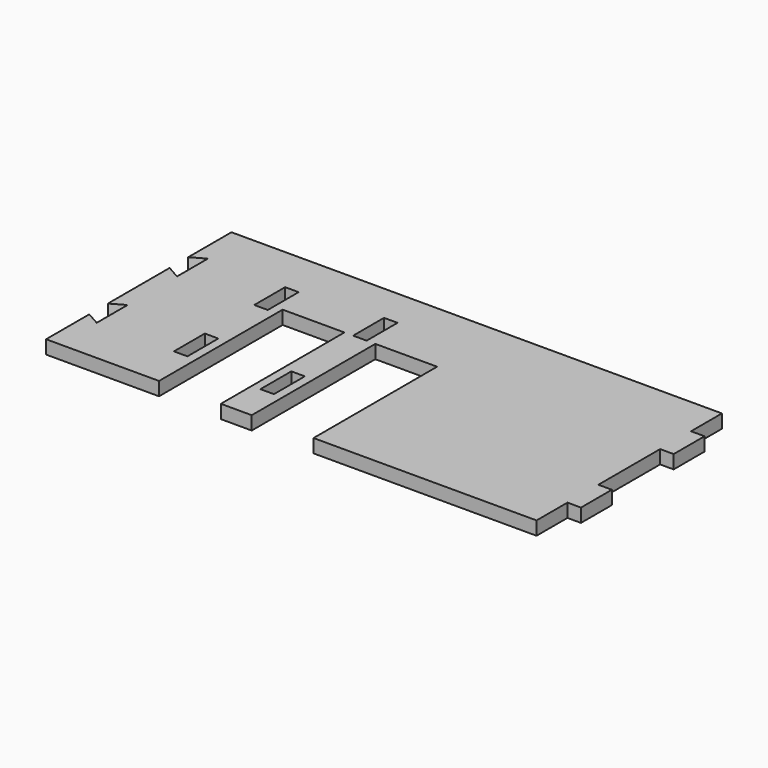
from build123d import *

# Parameters (mm, degrees)
F0_W      = 3.5
F0_H      = 10
F1_DEPTH  = 3.5
F1_FACE_W = 60
F1_FACE_H = 3.5
F2_DEPTH  = 3.5
F4_DEPTH  = 3.5
F5_W      = 10
F5_H      = 3.5
F6_DEPTH  = 3.5
F7_W      = 3.5
F7_H      = 10
F8_DEPTH  = 3.5


with BuildPart() as f1:
    # F0 (on Top) → F1 (new body)
    with BuildSketch(Plane.XY):
        Polygon((-49.305556, 34.444444), (-49.305556, -25.555556), (-23.555556, -25.555556), (-23.555556, 14.444444), (-7.555556, 14.444444), (-7.555556, -25.555556), (-5.305556, -25.555556), (-1.805556, -25.555556), (0.444444, -25.555556), (0.444444, 14.444444), (16.444444, 14.444444), (16.444444, -25.555556), (74.194444, -25.555556), (74.194444, 34.444444), (-1.805556, 34.444444), (-5.305556, 34.444444), align=None)
        with Locations((-3.555556, -10.555556)):
            Rectangle(F0_W, F0_H, mode=Mode.SUBTRACT)
        with Locations((-3.555556, 19.444444)):
            Rectangle(F0_W, F0_H, mode=Mode.SUBTRACT)
    extrude(amount=F1_DEPTH)

    # F1_face (on face) → F2 (join)
    with BuildSketch(Plane(origin=(-49.305556, 4.444444, 1.75), x_dir=(0, -1, 0), z_dir=(-1, 0, 0))):
        Rectangle(F1_FACE_W, F1_FACE_H)
    extrude(amount=F2_DEPTH)

    # F3 (on face) → F4 (cut)
    with BuildSketch(Plane.XY.offset(3.5)):
        Polygon((-49.305556, 22.444444), (-52.805556, 20.444444), (-52.805556, 14.444444), (-49.305556, 12.444444), align=None)
        Polygon((-49.305556, -3.555556), (-52.805556, -5.555556), (-52.805556, -11.555556), (-49.305556, -13.555556), align=None)
    extrude(amount=-F4_DEPTH, mode=Mode.SUBTRACT)

    # F5 (on face) → F6 (join)
    with BuildSketch(Plane.YZ.offset(74.194444)):
        with Locations((-10.555556, 1.75)):
            Rectangle(F5_W, F5_H)
        with Locations((19.444444, 1.75)):
            Rectangle(F5_W, F5_H)
    extrude(amount=F6_DEPTH)

    # F7 (on face) → F8 (cut)
    with BuildSketch(Plane.XY.offset(3.5)):
        with Locations((-27.555556, 17.444444)):
            Rectangle(F7_W, F7_H)
        with Locations((-27.555556, -8.555556)):
            Rectangle(F7_W, F7_H)
    extrude(amount=-F8_DEPTH, mode=Mode.SUBTRACT)


solid = f1.part
